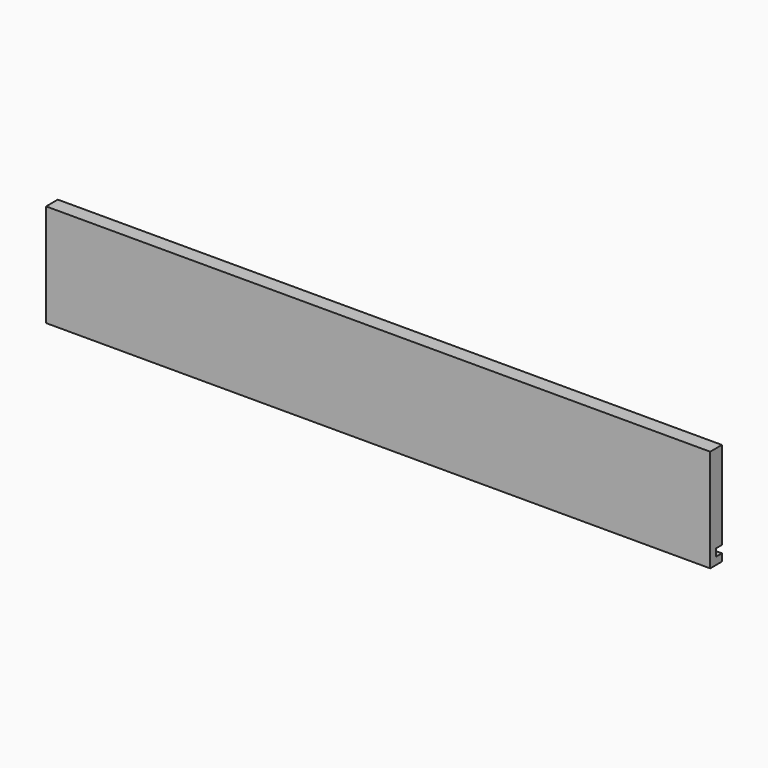
from build123d import *

# Parameters (mm, degrees)
PAD_DEPTH = 574.6


with BuildPart() as part:
    # Sketch → Pad (new body)
    with BuildSketch(Plane.YZ):
        Polygon((0, 0), (12.7, 0), (12.7, 6.35), (6.35, 6.35), (6.35, 12.7), (12.7, 12.7), (12.7, 88.9), (0, 88.9), align=None)
    extrude(amount=PAD_DEPTH)


solid = part.part
